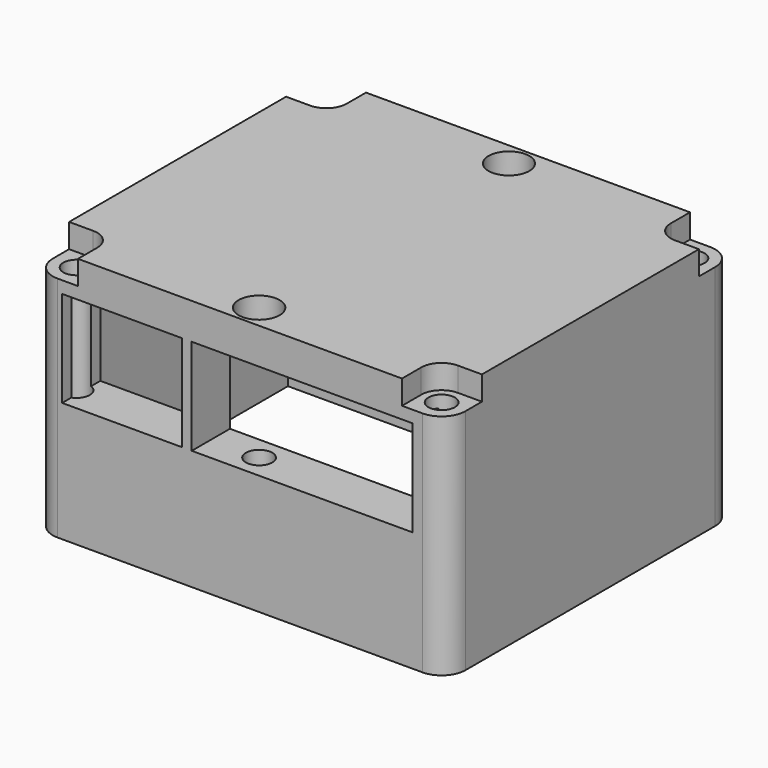
from build123d import *

# Parameters (mm, degrees)
F0_W      = 86
F0_H      = 75
F0_W_2    = 84.1
F0_H_2    = 55.1
F1_DEPTH  = 45
F2_W      = 86
F2_H      = 75
F2_W_2    = 84.1
F2_H_2    = 55.1
F3_DEPTH  = 5
F4_W      = 25
F4_H      = 20
F4_W_2    = 46
F5_DEPTH  = 25
F6_R      = 2.75
F7_DEPTH  = 50.001
F8_R      = 5
F9_R      = 2.75
F9_R_2    = 4.275
F9_R_3    = 4.25
F10_DEPTH = 2.5
F11_R     = 4.275
F11_R_2   = 4.25
F12_DEPTH = 2.5


with BuildPart() as f1:
    # F0 (on Top) → F1 (new body)
    with BuildSketch(Plane.XY):
        Rectangle(F0_W, F0_H)
        Rectangle(F0_W_2, F0_H_2, mode=Mode.SUBTRACT)
    extrude(amount=F1_DEPTH)

    # F2 (on face) → F3 (join)
    with BuildSketch(Plane.XY.offset(45)):
        Rectangle(F2_W, F2_H)
        Rectangle(F2_W_2, F2_H_2, mode=Mode.SUBTRACT)
        Rectangle(F2_W_2, F2_H_2)
    extrude(amount=F3_DEPTH)

    # F4 (on face) → F5 (cut)
    with BuildSketch(Plane.XZ.offset(37.5)):
        with Locations((-24.55, 35)):
            Rectangle(F4_W, F4_H)
        with Locations((12.95, 35)):
            Rectangle(F4_W_2, F4_H)
    extrude(amount=-F5_DEPTH, mode=Mode.SUBTRACT)

    # F6 (on face) → F7 (cut, through all)
    with BuildSketch(Plane(origin=(0, 0, 0), x_dir=(1, 0, 0), z_dir=(0, 0, -1))):
        with Locations((-38.025, 32.525)):
            Circle(F6_R)
        with Locations((0, 32.525)):
            Circle(F6_R)
        with Locations((38.025, 32.525)):
            Circle(F6_R)
        with Locations((38.025, -32.525)):
            Circle(F6_R)
        with Locations((0, -32.525)):
            Circle(F6_R)
        with Locations((-38.025, -32.525)):
            Circle(F6_R)
    extrude(amount=-F7_DEPTH, mode=Mode.SUBTRACT)

    # F8
    f8_edges = [f1.edges().sort_by_distance(p)[0] for p in [
        (43, -37.5, 25),
        (43, 37.5, 25),
        (-43, 37.5, 25),
        (-43, -37.5, 25),
    ]]
    fillet(f8_edges, radius=F8_R)

    # F9 (on face) → F10 (cut)
    with BuildSketch(Plane.XY.offset(50)):
        with BuildLine():
            Line((-38, -37.5), (-33.75, -37.5))
            Line((-33.75, -37.5), (-33.75, -32.5))
            ThreePointArc((-33.75, -32.5), (-41.00520382, -35.50520382), (-38, -28.25))
            Line((-38, -28.25), (-43, -28.25))
            Line((-43, -28.25), (-43, -32.5))
            ThreePointArc((-43, -32.5), (-41.5355339059, -36.0355339059), (-38, -37.5))
        make_face()
        with BuildLine():
            ThreePointArc((-38, -28.25), (-41.00520382, -35.50520382), (-33.75, -32.5))
            ThreePointArc((-33.75, -32.5), (-34.99479618, -29.49479618), (-38, -28.25))
        make_face()
        with Locations((-38.025, -32.525)):
            Circle(F9_R, mode=Mode.SUBTRACT)
        with Locations((0, -32.525)):
            Circle(F9_R_2)
        with Locations((0, -32.525)):
            Circle(F9_R, mode=Mode.SUBTRACT)
        with BuildLine():
            ThreePointArc((38, -37.5), (41.5355339059, -36.0355339059), (43, -32.5))
            Line((43, -32.5), (43, -28.25))
            Line((43, -28.25), (38, -28.25))
            ThreePointArc((38, -28.25), (41.00520382, -29.49479618), (42.25, -32.5))
            ThreePointArc((42.25, -32.5), (38, -36.75), (33.75, -32.5))
            Line((33.75, -32.5), (33.75, -37.5))
            Line((33.75, -37.5), (38, -37.5))
        make_face()
        with BuildLine():
            ThreePointArc((42.25, -32.5), (41.00520382, -29.49479618), (38, -28.25))
            ThreePointArc((38, -28.25), (34.99479618, -29.49479618), (33.75, -32.5))
            ThreePointArc((33.75, -32.5), (38, -36.75), (42.25, -32.5))
        make_face()
        with Locations((38.025, -32.525)):
            Circle(F9_R, mode=Mode.SUBTRACT)
        with Locations((0, 32.525)):
            Circle(F9_R_3)
        with Locations((0, 32.525)):
            Circle(F9_R, mode=Mode.SUBTRACT)
        with BuildLine():
            Line((-33.75, 32.5), (-33.75, 37.5))
            Line((-33.75, 37.5), (-38, 37.5))
            ThreePointArc((-38, 37.5), (-41.5355339059, 36.0355339059), (-43, 32.5))
            Line((-43, 32.5), (-43, 28.25))
            Line((-43, 28.25), (-38, 28.25))
            ThreePointArc((-38, 28.25), (-41.00520382, 35.50520382), (-33.75, 32.5))
        make_face()
        with BuildLine():
            ThreePointArc((-38, 28.25), (-34.99479618, 29.49479618), (-33.75, 32.5))
            ThreePointArc((-33.75, 32.5), (-41.00520382, 35.50520382), (-38, 28.25))
        make_face()
        with Locations((-38.025, 32.525)):
            Circle(F9_R, mode=Mode.SUBTRACT)
        with BuildLine():
            Line((38, 28.25), (43, 28.25))
            Line((43, 28.25), (43, 32.5))
            ThreePointArc((43, 32.5), (41.5355339059, 36.0355339059), (38, 37.5))
            Line((38, 37.5), (33.75, 37.5))
            Line((33.75, 37.5), (33.75, 32.5))
            ThreePointArc((33.75, 32.5), (38, 36.75), (42.25, 32.5))
            ThreePointArc((42.25, 32.5), (41.00520382, 29.49479618), (38, 28.25))
        make_face()
        with BuildLine():
            ThreePointArc((33.75, 32.5), (34.99479618, 29.49479618), (38, 28.25))
            ThreePointArc((38, 28.25), (41.00520382, 29.49479618), (42.25, 32.5))
            ThreePointArc((42.25, 32.5), (38, 36.75), (33.75, 32.5))
        make_face()
        with Locations((38.025, 32.525)):
            Circle(F9_R, mode=Mode.SUBTRACT)
    extrude(amount=-F10_DEPTH, mode=Mode.SUBTRACT)

    # F11 (on face) → F12 (join)
    with BuildSketch(Plane.XY.offset(50)):
        with BuildLine():
            Line((43, 28.25), (38, 28.25))
            ThreePointArc((38, 28.25), (34.99479618, 29.49479618), (33.75, 32.5))
            Line((33.75, 32.5), (33.75, 37.5))
            Line((33.75, 37.5), (-33.75, 37.5))
            Line((-33.75, 37.5), (-33.75, 32.5))
            ThreePointArc((-33.75, 32.5), (-34.99479618, 29.49479618), (-38, 28.25))
            Line((-38, 28.25), (-43, 28.25))
            Line((-43, 28.25), (-43, -28.25))
            Line((-43, -28.25), (-38, -28.25))
            ThreePointArc((-38, -28.25), (-34.99479618, -29.49479618), (-33.75, -32.5))
            Line((-33.75, -32.5), (-33.75, -37.5))
            Line((-33.75, -37.5), (33.75, -37.5))
            Line((33.75, -37.5), (33.75, -32.5))
            ThreePointArc((33.75, -32.5), (34.99479618, -29.49479618), (38, -28.25))
            Line((38, -28.25), (43, -28.25))
            Line((43, -28.25), (43, 28.25))
        make_face()
        with Locations((0, -32.525)):
            Circle(F11_R, mode=Mode.SUBTRACT)
        with Locations((0, 32.525)):
            Circle(F11_R_2, mode=Mode.SUBTRACT)
    extrude(amount=F12_DEPTH)


solid = f1.part
